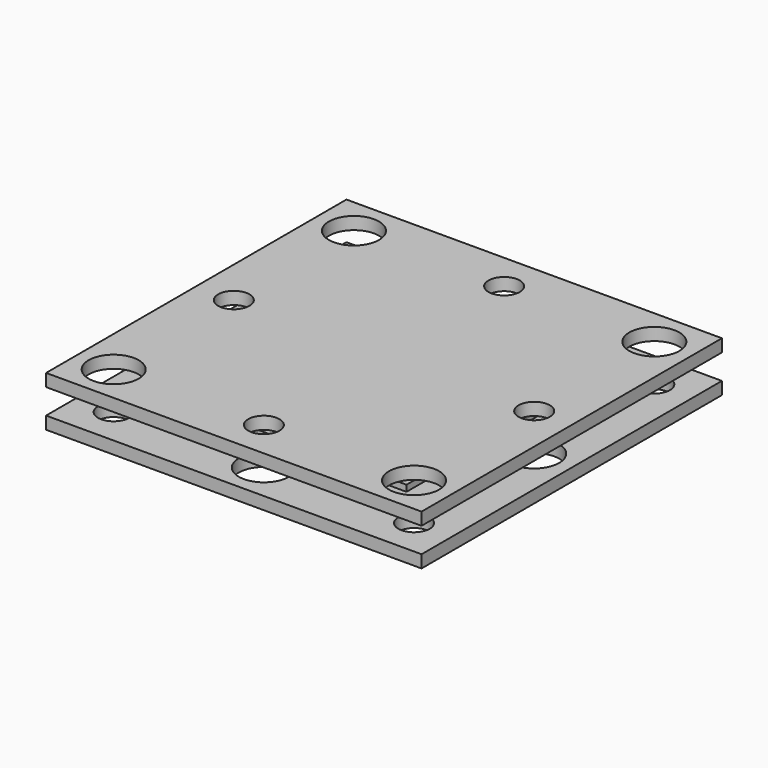
from build123d import *

# Parameters (mm, degrees)
F0_W     = 60
F0_H     = 60
F0_R     = 4
F0_W_2   = 36
F0_H_2   = 36
F0_W_3   = 32
F0_H_3   = 32
F0_R_2   = 2.5
F1_DEPTH = 2
F2_DEPTH = 1
F3_START = 4
F3_DEPTH = 2
F4_START = 3
F4_DEPTH = 1


with BuildPart() as f1:
    # F0 (on Top) → F1 (new body)
    with BuildSketch(Plane.XY):
        Rectangle(F0_W, F0_H)
        with Locations((-24, -24)):
            Circle(F0_R, mode=Mode.SUBTRACT)
        with Locations((0, -24)):
            Circle(F0_R, mode=Mode.SUBTRACT)
        with Locations((24, -24)):
            Circle(F0_R, mode=Mode.SUBTRACT)
        with Locations((-24, 0)):
            Circle(F0_R, mode=Mode.SUBTRACT)
        with Locations((-24, 24)):
            Circle(F0_R, mode=Mode.SUBTRACT)
        Rectangle(F0_W_2, F0_H_2, mode=Mode.SUBTRACT)
        with Locations((24, 0)):
            Circle(F0_R, mode=Mode.SUBTRACT)
        with Locations((0, 24)):
            Circle(F0_R, mode=Mode.SUBTRACT)
        with Locations((24, 24)):
            Circle(F0_R, mode=Mode.SUBTRACT)
        Rectangle(F0_W_2, F0_H_2)
        Rectangle(F0_W_3, F0_H_3, mode=Mode.SUBTRACT)
        Rectangle(F0_W_3, F0_H_3)
        with Locations((-24, 24)):
            Circle(F0_R)
        with Locations((-24, 24)):
            Circle(F0_R_2, mode=Mode.SUBTRACT)
        with Locations((24, 24)):
            Circle(F0_R)
        with Locations((24, 24)):
            Circle(F0_R_2, mode=Mode.SUBTRACT)
        with Locations((24, -24)):
            Circle(F0_R)
        with Locations((24, -24)):
            Circle(F0_R_2, mode=Mode.SUBTRACT)
        with Locations((-24, -24)):
            Circle(F0_R)
        with Locations((-24, -24)):
            Circle(F0_R_2, mode=Mode.SUBTRACT)
    extrude(amount=-F1_DEPTH)

    # F0 (on Top) → F2 (join)
    with BuildSketch(Plane.XY):
        Rectangle(F0_W_2, F0_H_2)
        Rectangle(F0_W_3, F0_H_3, mode=Mode.SUBTRACT)
    extrude(amount=F2_DEPTH)


with BuildPart() as f3:
    # F0 (on Top) → F3 (new body)
    with BuildSketch(Plane.XY.offset(F3_START)):
        Rectangle(F0_W, F0_H)
        with Locations((-24, -24)):
            Circle(F0_R, mode=Mode.SUBTRACT)
        with Locations((0, -24)):
            Circle(F0_R, mode=Mode.SUBTRACT)
        with Locations((24, -24)):
            Circle(F0_R, mode=Mode.SUBTRACT)
        with Locations((-24, 0)):
            Circle(F0_R, mode=Mode.SUBTRACT)
        with Locations((-24, 24)):
            Circle(F0_R, mode=Mode.SUBTRACT)
        Rectangle(F0_W_2, F0_H_2, mode=Mode.SUBTRACT)
        with Locations((24, 0)):
            Circle(F0_R, mode=Mode.SUBTRACT)
        with Locations((0, 24)):
            Circle(F0_R, mode=Mode.SUBTRACT)
        with Locations((24, 24)):
            Circle(F0_R, mode=Mode.SUBTRACT)
        Rectangle(F0_W_2, F0_H_2)
        Rectangle(F0_W_3, F0_H_3, mode=Mode.SUBTRACT)
        Rectangle(F0_W_3, F0_H_3)
        with Locations((-24, 0)):
            Circle(F0_R)
        with Locations((-24, 0)):
            Circle(F0_R_2, mode=Mode.SUBTRACT)
        with Locations((0, 24)):
            Circle(F0_R)
        with Locations((0, 24)):
            Circle(F0_R_2, mode=Mode.SUBTRACT)
        with Locations((24, 0)):
            Circle(F0_R)
        with Locations((24, 0)):
            Circle(F0_R_2, mode=Mode.SUBTRACT)
        with Locations((0, -24)):
            Circle(F0_R)
        with Locations((0, -24)):
            Circle(F0_R_2, mode=Mode.SUBTRACT)
    extrude(amount=F3_DEPTH)

    # F0 (on Top) → F4 (join)
    with BuildSketch(Plane.XY.offset(F4_START)):
        Rectangle(F0_W_2, F0_H_2)
        Rectangle(F0_W_3, F0_H_3, mode=Mode.SUBTRACT)
    extrude(amount=F4_DEPTH)


solid = Compound([f1.part, f3.part])
